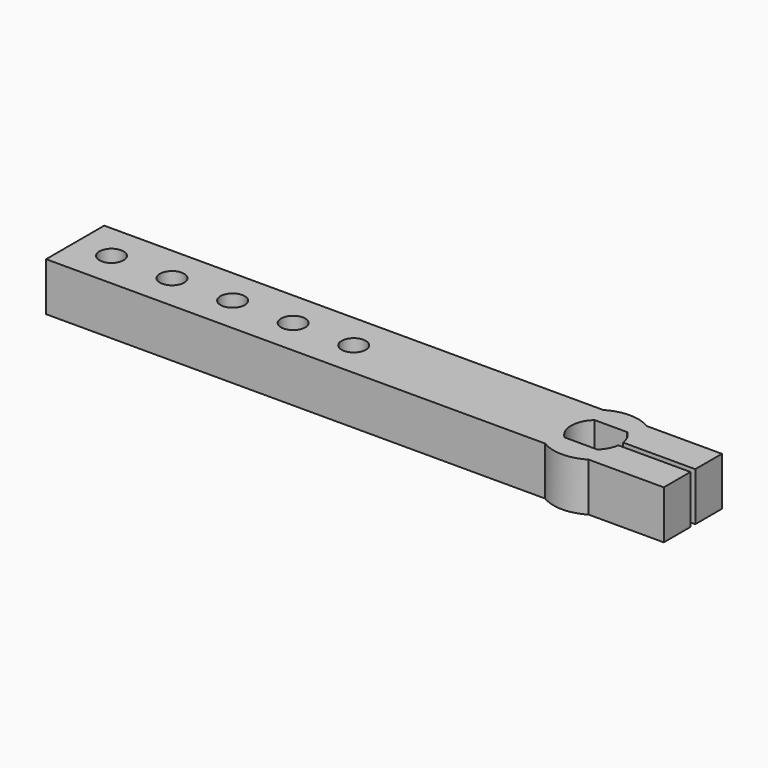
from build123d import *

# Parameters (mm, degrees)
F0_R     = 1
F1_DEPTH = 2
F2_W     = 0.5
F2_H     = 9.6567419327
F3_DEPTH = 25


with BuildPart() as f1:
    # F0 (on Top) → F1 (new body, symmetric)
    with BuildSketch(Plane.XY):
        with BuildLine():
            Line((-43, -3), (-1.8027756377, -3))
            ThreePointArc((-1.8027756377, -3), (-2.574610741, -2.3709448607), (-3.1380726569, -1.55))
            ThreePointArc((-3.1380726569, -1.55), (-3.5, 0), (-3.1380726569, 1.55))
            ThreePointArc((-3.1380726569, 1.55), (-2.574610741, 2.3709448607), (-1.8027756377, 3))
            Line((-1.8027756377, 3), (-43, 3))
            Line((-43, 3), (-43, -3))
        make_face()
        with Locations((-40, 0)):
            Circle(F0_R, mode=Mode.SUBTRACT)
        with Locations((-35, 0)):
            Circle(F0_R, mode=Mode.SUBTRACT)
        with Locations((-30, 0)):
            Circle(F0_R, mode=Mode.SUBTRACT)
        with Locations((-25, 0)):
            Circle(F0_R, mode=Mode.SUBTRACT)
        with Locations((-20, 0)):
            Circle(F0_R, mode=Mode.SUBTRACT)
        with BuildLine():
            Line((-3.1380726569, -1.55), (-1.3416407865, -1.55))
            ThreePointArc((-1.3416407865, -1.55), (-2.05, 0), (-1.3416407865, 1.55))
            Line((-1.3416407865, 1.55), (-3.1380726569, 1.55))
            ThreePointArc((-3.1380726569, 1.55), (-3.5, 0), (-3.1380726569, -1.55))
        make_face()
        with BuildLine():
            ThreePointArc((1.8027756377, -3), (2.574610741, -2.3709448607), (3.1380726569, -1.55))
            Line((3.1380726569, -1.55), (1.3416407865, -1.55))
            ThreePointArc((1.3416407865, -1.55), (0, -2.05), (-1.3416407865, -1.55))
            Line((-1.3416407865, -1.55), (-3.1380726569, -1.55))
            ThreePointArc((-3.1380726569, -1.55), (-2.574610741, -2.3709448607), (-1.8027756377, -3))
            Line((-1.8027756377, -3), (1.8027756377, -3))
        make_face()
        with BuildLine():
            Line((1.3416407865, 1.55), (3.1380726569, 1.55))
            ThreePointArc((3.1380726569, 1.55), (2.574610741, 2.3709448607), (1.8027756377, 3))
            Line((1.8027756377, 3), (-1.8027756377, 3))
            ThreePointArc((-1.8027756377, 3), (-2.574610741, 2.3709448607), (-3.1380726569, 1.55))
            Line((-3.1380726569, 1.55), (-1.3416407865, 1.55))
            ThreePointArc((-1.3416407865, 1.55), (0, 2.05), (1.3416407865, 1.55))
        make_face()
        with BuildLine():
            ThreePointArc((1.3416407865, 1.55), (0, 2.05), (-1.3416407865, 1.55))
            Line((-1.3416407865, 1.55), (1.3416407865, 1.55))
        make_face()
        with BuildLine():
            ThreePointArc((-1.3416407865, -1.55), (0, -2.05), (1.3416407865, -1.55))
            Line((1.3416407865, -1.55), (-1.3416407865, -1.55))
        make_face()
        with BuildLine():
            Line((1.3416407865, -1.55), (3.1380726569, -1.55))
            ThreePointArc((3.1380726569, -1.55), (3.4083173487, -0.7958472532), (3.5, 0))
            ThreePointArc((3.5, 0), (3.4083173487, 0.7958472532), (3.1380726569, 1.55))
            Line((3.1380726569, 1.55), (1.3416407865, 1.55))
            ThreePointArc((1.3416407865, 1.55), (1.864519189, 0.8520963524), (2.05, 0))
            ThreePointArc((2.05, 0), (1.864519189, -0.8520963524), (1.3416407865, -1.55))
        make_face()
        with BuildLine():
            ThreePointArc((3.5, 0), (3.4083173487, -0.7958472532), (3.1380726569, -1.55))
            ThreePointArc((3.1380726569, -1.55), (2.574610741, -2.3709448607), (1.8027756377, -3))
            Line((1.8027756377, -3), (8, -3))
            Line((8, -3), (8, 3))
            Line((8, 3), (1.8027756377, 3))
            ThreePointArc((1.8027756377, 3), (2.574610741, 2.3709448607), (3.1380726569, 1.55))
            ThreePointArc((3.1380726569, 1.55), (3.4083173487, 0.7958472532), (3.5, 0))
        make_face()
        with BuildLine():
            ThreePointArc((-1.8027756377, -3), (0, -3.5), (1.8027756377, -3))
            Line((1.8027756377, -3), (-1.8027756377, -3))
        make_face()
        with BuildLine():
            Line((-1.8027756377, 3), (1.8027756377, 3))
            ThreePointArc((1.8027756377, 3), (0, 3.5), (-1.8027756377, 3))
        make_face()
    extrude(amount=F1_DEPTH, both=True)

    # F2 (on Right) → F3 (cut)
    with BuildSketch(Plane.YZ):
        Rectangle(F2_W, F2_H)
    extrude(amount=F3_DEPTH, mode=Mode.SUBTRACT)


solid = f1.part
